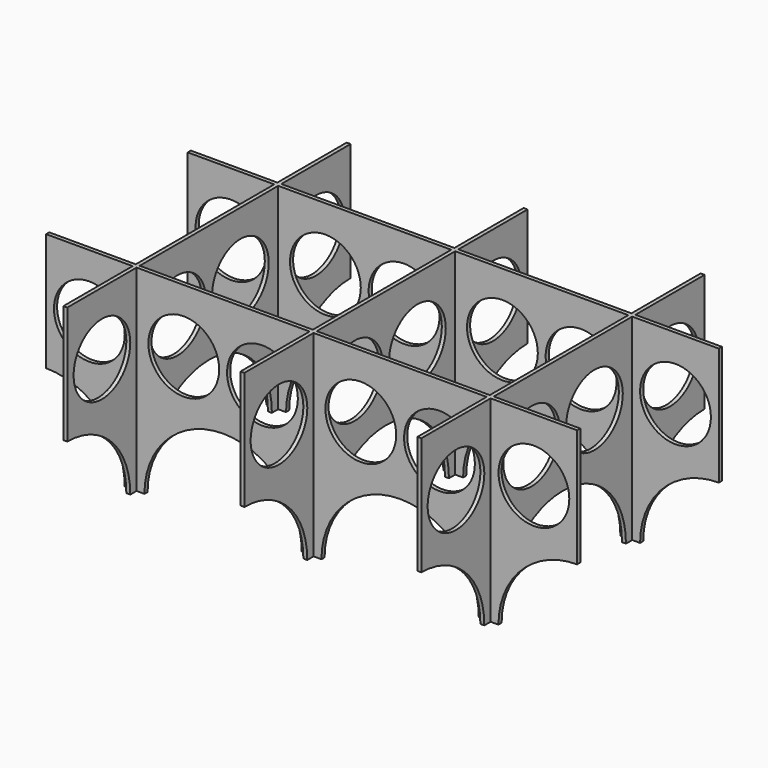
from build123d import *

# Parameters (mm, degrees)
F0_W     = 1
F0_H     = 22
F0_W_2   = 22
F0_H_2   = 1
F0_W_3   = 44
F0_H_3   = 44
F1_DEPTH = 50
F2_R     = 9
F2_R_2   = 20
F3_DEPTH = 400
F4_R     = 9
F4_R_2   = 20
F5_DEPTH = 400


with BuildPart() as f1:
    # F0 (on Top) → F1 (new body)
    with BuildSketch(Plane.XY):
        with Locations((-45, 34)):
            Rectangle(F0_W, F0_H)
        with Locations((-56.5, 22.5)):
            Rectangle(F0_W_2, F0_H_2)
        with Locations((-22.5, 22.5)):
            Rectangle(F0_W_3, F0_H_2)
        with Locations((-45, 0)):
            Rectangle(F0_W, F0_H_3)
        with Locations((-45, 22.5)):
            Rectangle(F0_W, F0_H_2)
        with Locations((0, 22.5)):
            Rectangle(F0_W, F0_H_2)
        with Locations((0, 34)):
            Rectangle(F0_W, F0_H)
        with Locations((22.5, 22.5)):
            Rectangle(F0_W_3, F0_H_2)
        Rectangle(F0_W, F0_H_3)
        with Locations((45, 22.5)):
            Rectangle(F0_W, F0_H_2)
        with Locations((56.5, 22.5)):
            Rectangle(F0_W_2, F0_H_2)
        with Locations((45, 34)):
            Rectangle(F0_W, F0_H)
        with Locations((45, 0)):
            Rectangle(F0_W, F0_H_3)
        with Locations((56.5, -22.5)):
            Rectangle(F0_W_2, F0_H_2)
        with Locations((45, -34)):
            Rectangle(F0_W, F0_H)
        with Locations((45, -22.5)):
            Rectangle(F0_W, F0_H_2)
        with Locations((22.5, -22.5)):
            Rectangle(F0_W_3, F0_H_2)
        with Locations((0, -22.5)):
            Rectangle(F0_W, F0_H_2)
        with Locations((0, -34)):
            Rectangle(F0_W, F0_H)
        with Locations((-22.5, -22.5)):
            Rectangle(F0_W_3, F0_H_2)
        with Locations((-56.5, -22.5)):
            Rectangle(F0_W_2, F0_H_2)
        with Locations((-45, -34)):
            Rectangle(F0_W, F0_H)
        with Locations((-45, -22.5)):
            Rectangle(F0_W, F0_H_2)
    extrude(amount=F1_DEPTH)

    # F2 (on face) → F3 (cut)
    with BuildSketch(Plane.XZ.offset(23)):
        with Locations((-56.5, 34)):
            Circle(F2_R)
        with Locations((-67.5, 0)):
            Circle(F2_R_2)
        with BuildLine():
            Line((-42.5, 0), (-2.5, 0))
            ThreePointArc((-2.5, 0), (-22.5, 20), (-42.5, 0))
        make_face()
        with Locations((-32.5, 34)):
            Circle(F2_R)
        with Locations((-12.5, 34)):
            Circle(F2_R)
        with Locations((22.5, 0)):
            Circle(F2_R_2)
        with Locations((12.5, 34)):
            Circle(F2_R)
        with Locations((32.5, 34)):
            Circle(F2_R)
        with Locations((56.5, 34)):
            Circle(F2_R)
        with Locations((67.5, 0)):
            Circle(F2_R_2)
    extrude(amount=-F3_DEPTH, mode=Mode.SUBTRACT)

    # F4 (on face) → F5 (cut)
    with BuildSketch(Plane.YZ.offset(45.5)):
        with Locations((-34, 34)):
            Circle(F4_R)
        with Locations((-10, 34)):
            Circle(F4_R)
        with Locations((10, 34)):
            Circle(F4_R)
        with Locations((34, 34)):
            Circle(F4_R)
        with Locations((45, 0)):
            Circle(F4_R_2)
        with BuildLine():
            Line((-20, 0), (20, 0))
            ThreePointArc((20, 0), (0, 20), (-20, 0))
        make_face()
        with Locations((-45, 0)):
            Circle(F4_R_2)
    extrude(amount=-F5_DEPTH, mode=Mode.SUBTRACT)


solid = f1.part
